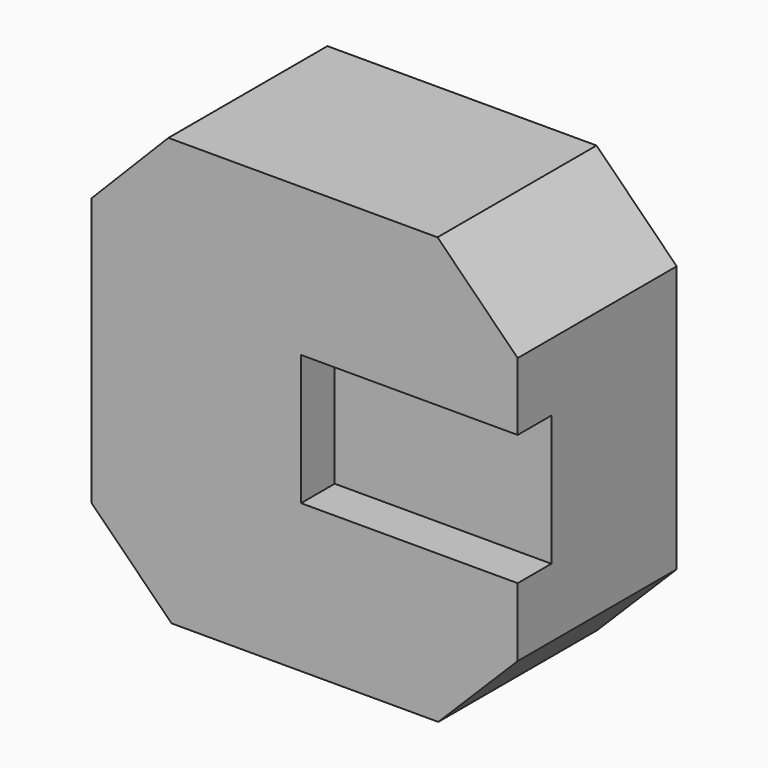
from build123d import *

# Parameters (mm, degrees)
F0_W      = 8.49884
F0_H      = 8.49884
F2_DEPTH  = 3.9624
F3_DEPTH  = 4.2926
F5_DEPTH  = 4.572
F7_DEPTH  = 25.4
F9_DEPTH  = 25.4
F10_W     = 1.016
F10_H     = 2.60096
F11_DEPTH = 4.318


with BuildPart() as f2:
    # F0 (on Front) → F2 (new body)
    with BuildSketch(Plane.XZ):
        Rectangle(F0_W, F0_H)
    extrude(amount=F2_DEPTH)

    # F1 (on face) → F3 (cut)
    with BuildSketch(Plane.XZ):
        Polygon((-4.278509, 4.281422), (-4.251881, 2.683762), (-2.680849, 4.281422), align=None)
    extrude(amount=F3_DEPTH, mode=Mode.SUBTRACT)

    # F4 (on face) → F5 (cut)
    with BuildSketch(Plane.XZ.offset(3.9624)):
        Polygon((4.24942, 4.24942), (2.65176, 4.24942), (4.24942, 2.649474), align=None)
    extrude(amount=-F5_DEPTH, mode=Mode.SUBTRACT)

    # F6 (on face) → F7 (cut)
    with BuildSketch(Plane.XZ.offset(3.9624)):
        Polygon((-4.24942, -2.649474), (-4.24942, -4.24942), (-2.649474, -4.24942), align=None)
    extrude(amount=-F7_DEPTH, mode=Mode.SUBTRACT)

    # F8 (on face) → F9 (cut)
    with BuildSketch(Plane.XZ.offset(3.9624)):
        Polygon((2.667254, -4.24942), (4.24942, -4.24942), (4.24942, -2.667254), align=None)
    extrude(amount=-F9_DEPTH, mode=Mode.SUBTRACT)

    # F10 (on face) → F11 (cut)
    with BuildSketch(Plane.YZ.offset(4.24942)):
        with Locations((-3.631236, 0)):
            Rectangle(F10_W, F10_H)
    extrude(amount=-F11_DEPTH, mode=Mode.SUBTRACT)


solid = f2.part
